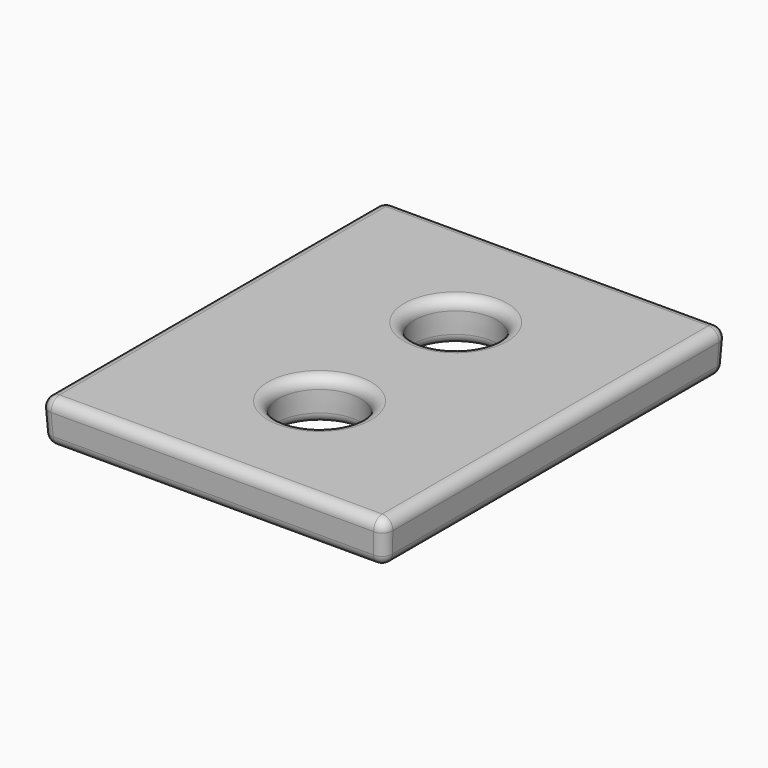
from build123d import *

# Parameters (mm, degrees)
F0_W     = 203.2
F0_H     = 254
F0_R     = 25.4
F1_DEPTH = 25.4
F1_TAPER = -3
F2_R     = 6.35


with BuildPart() as f1:
    # F0 (on Top) → F1 (new body)
    with BuildSketch(Plane.XY):
        with Locations((101.6, 127)):
            Rectangle(F0_W, F0_H)
        with Locations((103.7775874138, 76.2)):
            Circle(F0_R, mode=Mode.SUBTRACT)
        with Locations((103.7775874138, 177.8)):
            Circle(F0_R, mode=Mode.SUBTRACT)
    extrude(amount=F1_DEPTH, taper=F1_TAPER)

    # F2
    f2_edges = [f1.edges().sort_by_distance(p)[0] for p in [
        (0, 127, 0),
        (-1.331158, 127, 25.4),
        (-0.665579, 254.665579, 12.7),
        (101.6, 255.331158, 25.4),
        (79.708745, 177.8, 25.4),
        (78.377587, 177.8, 0),
        (128.512009, 177.8, 12.7),
        (-0.665579, -0.665579, 12.7),
        (101.6, -1.331158, 25.4),
        (204.531158, 127, 25.4),
        (79.708745, 76.2, 25.4),
        (78.377587, 76.2, 0),
        (128.512009, 76.2, 12.7),
        (101.6, 0, 0),
        (203.865579, -0.665579, 12.7),
        (101.6, 254, 0),
        (203.2, 127, 0),
        (203.865579, 254.665579, 12.7),
    ]]
    fillet(f2_edges, radius=F2_R)


solid = f1.part
